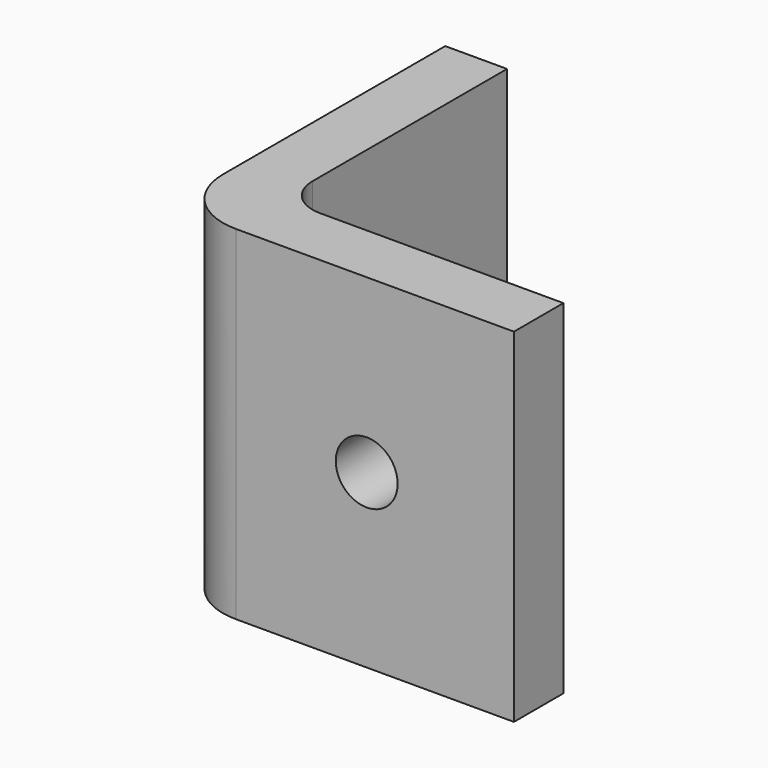
from build123d import *

# Parameters (mm, degrees)
F1_DEPTH = 44.45
F2_R     = 4
F3_DEPTH = 8
F4_R     = 4
F5_DEPTH = 8


with BuildPart() as f1:
    # F0 (on Top) → F1 (new body)
    with BuildSketch(Plane.XY):
        with BuildLine():
            Line((8, 44.45), (0, 44.45))
            Line((0, 44.45), (0, 8.5))
            ThreePointArc((0, 8.5), (2.489592, 2.489592), (8.5, 0))
            Line((8.5, 0), (44.45, 0))
            Line((44.45, 0), (44.45, 8))
            Line((44.45, 8), (13, 8))
            ThreePointArc((13, 8), (9.464466, 9.464466), (8, 13))
            Line((8, 13), (8, 44.45))
        make_face()
    extrude(amount=F1_DEPTH)

    # F2 (on face) → F3 (cut, through all)
    with BuildSketch(Plane.YZ.offset(8)):
        with Locations((25.4, 22.225)):
            Circle(F2_R)
    extrude(amount=-F3_DEPTH, mode=Mode.SUBTRACT)

    # F4 (on face) → F5 (cut, through all)
    with BuildSketch(Plane.XZ):
        with Locations((25.4, 22.225)):
            Circle(F4_R)
    extrude(amount=-F5_DEPTH, mode=Mode.SUBTRACT)


solid = f1.part
